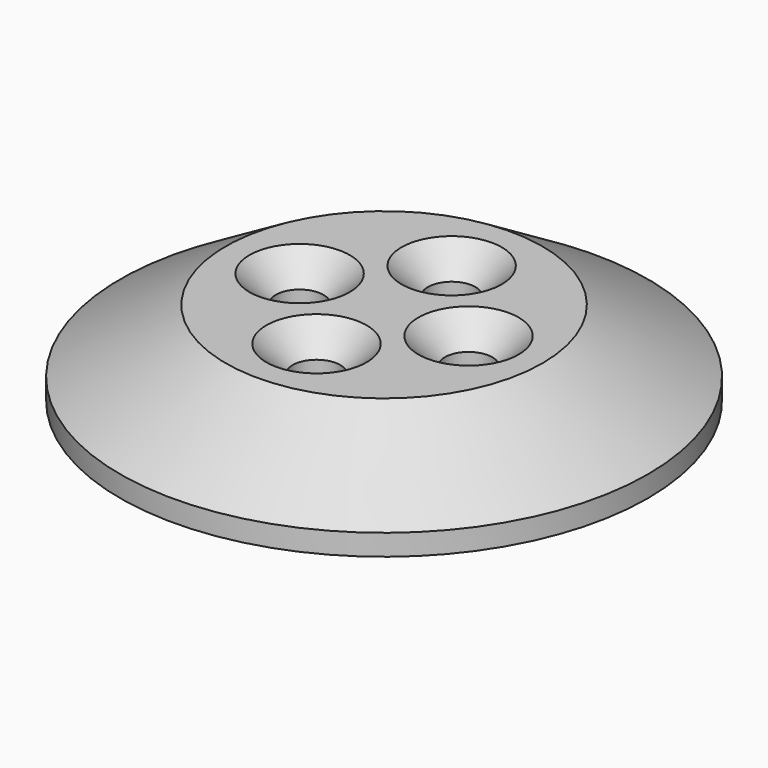
from build123d import *

# Parameters (mm, degrees)
CYLINDER_R        = 5.2
CYLINDER_DEPTH    = 5
CYLINDER002_R     = 2.25
CYLINDER002_DEPTH = 15
ARRAY_COUNT       = 4
CYLINDER005_R     = 25
CYLINDER005_DEPTH = 2
CYLINDER001_R     = 15
CYLINDER001_DEPTH = 8
CHAMFER_SIZE      = 2.5


with BuildPart() as eje:
    # Cylinder → Cylinder (new body)
    with BuildSketch(Plane.XY):
        Circle(CYLINDER_R)
    extrude(amount=CYLINDER_DEPTH)


with BuildPart() as fusion:
    # Cylinder002 → Cylinder002 (new body)
    with BuildSketch(Plane(origin=(8, 0, 0), x_dir=(1, 0, 0), z_dir=(0, 0, 1))):
        Circle(CYLINDER002_R)
    extrude(amount=CYLINDER002_DEPTH)

    # Array: Fusion ×4 about axis
    array_axis = Axis((0, 0, 0), (0, 0, 1))


with BuildPart() as fusion_1:
    add(fusion.part)
    for i in range(1, ARRAY_COUNT):
        add(fusion.part.rotate(array_axis, i * 360 / ARRAY_COUNT))

    # Fusion: union eje
    add(eje.part)


with BuildPart() as cilindro003:
    # Cylinder005 → Cylinder005 (new body)
    with BuildSketch(Plane.XY):
        Circle(CYLINDER005_R)
    extrude(amount=CYLINDER005_DEPTH)


with BuildPart() as cono:
    # Cone → Cone (revolve)
    with BuildSketch(Plane(origin=(0, 0, 2), x_dir=(1, 0, 0), z_dir=(0, -1, 0))):
        Polygon((0, 0), (25, 0), (15, 6), (0, 6), align=None)
    revolve(axis=Axis((0, 0, 2), (0, 0, 1)))


with BuildPart() as chamfer_body:
    # Cylinder001 → Cylinder001 (new body)
    with BuildSketch(Plane.XY):
        Circle(CYLINDER001_R)
    extrude(amount=CYLINDER001_DEPTH)

    # Fusion001: union Cilindro003, Cono
    add(cilindro003.part)
    add(cono.part)

    # Cut: cut Fusion
    add(fusion_1.part, mode=Mode.SUBTRACT)

    # Chamfer
    chamfer_edges = [chamfer_body.edges().sort_by_distance(p)[0] for p in [
        (5.75, 0, 8),
        (0, -5.75, 8),
        (-5.75, 0, 8),
        (0, 5.75, 8),
    ]]
    chamfer(chamfer_edges, length=CHAMFER_SIZE)


solid = chamfer_body.part
